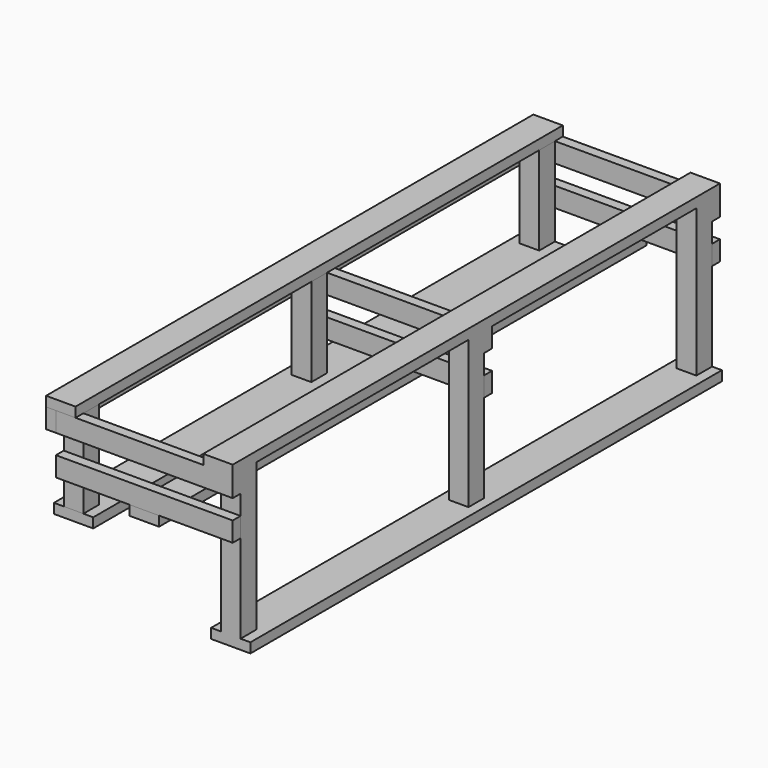
from build123d import *

# Parameters (mm, degrees)
F0_W      = 203.2
F0_H      = 50.8
F1_DEPTH  = 3048
F2_W      = 101.6
F2_H      = 101.6
F2_H_2    = 50.8
F3_DEPTH  = 762
F4_W      = 50.8
F4_H      = 101.6
F5_DEPTH  = 914.4
F6_W      = 50.8
F6_H      = 101.6
F7_DEPTH  = 914.4
F8_W      = 50.8
F8_H      = 101.6
F9_DEPTH  = 914.4
F13_DEPTH = 101.6
F14_W     = 50.8
F14_H     = 101.6
F15_DEPTH = 3149.6
F17_DEPTH = 3048
F18_W     = 50.8
F18_H     = 101.6
F19_DEPTH = 914.4
F20_W     = 50.8
F20_H     = 101.6
F21_DEPTH = 914.4
F22_W     = 50.8
F22_H     = 101.6
F23_DEPTH = 914.4
F24_W     = 152.4
F24_H     = 50.8
F25_DEPTH = 3149.6
F27_DEPTH = 3149.6
F29_DEPTH = 3149.6


with BuildPart() as f1:
    # F0 (on Front) → F1 (new body)
    with BuildSketch(Plane.XZ):
        with Locations((101.6, 25.4)):
            Rectangle(F0_W, F0_H)
    extrude(amount=F1_DEPTH)

    # F2 (on face) → F3 (join)
    with BuildSketch(Plane.XY.offset(50.8)):
        with Locations((101.6, -2997.2)):
            Rectangle(F2_W, F2_H)
        with Locations((101.6, -1549.4)):
            Rectangle(F2_W, F2_H_2)
        with Locations((101.6, -1498.6)):
            Rectangle(F2_W, F2_H_2)
        with Locations((101.6, -50.8)):
            Rectangle(F2_W, F2_H)
    extrude(amount=F3_DEPTH)

    # F4 (on face) → F5 (join)
    with BuildSketch(Plane.YZ.offset(152.4)):
        with Locations((25.4, 762)):
            Rectangle(F4_W, F4_H)
    extrude(amount=-F5_DEPTH)

    # F6 (on face) → F7 (join)
    with BuildSketch(Plane.YZ.offset(152.4)):
        with Locations((-3073.4, 762)):
            Rectangle(F6_W, F6_H)
    extrude(amount=-F7_DEPTH)

    # F8 (on face) → F9 (join)
    with BuildSketch(Plane.YZ.offset(152.4)):
        with Locations((-1447.8, 762)):
            Rectangle(F8_W, F8_H)
    extrude(amount=-F9_DEPTH)

    # F24 (on face) → F25 (join)
    with BuildSketch(Plane(origin=(0, 50.8, 0), x_dir=(-1, 0, 0), z_dir=(0, 1, 0))):
        with Locations((-76.2, 838.2)):
            Rectangle(F24_W, F24_H)
    extrude(amount=-F25_DEPTH)


with BuildPart() as f13:
    # F10 (on face) + F12 (on face) + F11 (on face) → F13 (new body)
    with BuildSketch(Plane(origin=(-762, 0, 0), x_dir=(0, -1, 0), z_dir=(-1, 0, 0))):
        Polygon((3048, 711.2), (3048, 812.8), (2946.4, 812.8), (2946.4, 355.6), (3048, 355.6), align=None)
    with BuildSketch(Plane(origin=(-762, 0, 0), x_dir=(0, -1, 0), z_dir=(-1, 0, 0))):
        Polygon((1574.8, 812.8), (1473.2, 812.8), (1473.2, 711.2), (1473.2, 355.6), (1574.8, 355.6), align=None)
    with BuildSketch(Plane(origin=(-762, 0, 0), x_dir=(0, -1, 0), z_dir=(-1, 0, 0))):
        Polygon((101.6, 812.8), (0, 812.8), (0, 711.2), (0, 355.6), (101.6, 355.6), align=None)
    extrude(amount=-F13_DEPTH)


with BuildPart() as f15:
    # F14 (on face) → F15 (new body)
    with BuildSketch(Plane.XZ.offset(3098.8)):
        with Locations((-787.4, 762)):
            Rectangle(F14_W, F14_H)
    extrude(amount=-F15_DEPTH)


with BuildPart() as f17:
    # F16 (on face) → F17 (new body)
    with BuildSketch(Plane.XZ.offset(3048)):
        Polygon((-609.6, 355.6), (-660.4, 355.6), (-762, 355.6), (-812.8, 355.6), (-812.8, 304.8), (-609.6, 304.8), align=None)
    extrude(amount=-F17_DEPTH)


with BuildPart() as f19:
    # F18 (on face) → F19 (new body)
    with BuildSketch(Plane.YZ.offset(152.4)):
        with Locations((25.4, 558.8)):
            Rectangle(F18_W, F18_H)
    extrude(amount=-F19_DEPTH)


with BuildPart() as f21:
    # F20 (on face) → F21 (new body)
    with BuildSketch(Plane.YZ.offset(152.4)):
        with Locations((-1447.8, 558.8)):
            Rectangle(F20_W, F20_H)
    extrude(amount=-F21_DEPTH)


with BuildPart() as f23:
    # F22 (on face) → F23 (new body)
    with BuildSketch(Plane.YZ.offset(152.4)):
        with Locations((-3073.4, 558.8)):
            Rectangle(F22_W, F22_H)
    extrude(amount=-F23_DEPTH)


with BuildPart() as f27:
    # F26 (on face) → F27 (new body)
    with BuildSketch(Plane(origin=(0, 50.8, 0), x_dir=(-1, 0, 0), z_dir=(0, 1, 0))):
        Polygon((762, 812.8), (812.8, 812.8), (812.8, 863.6), (660.4, 863.6), (660.4, 812.8), align=None)
    extrude(amount=-F27_DEPTH)


with BuildPart() as f29:
    # F28 (on face) → F29 (new body)
    with BuildSketch(Plane(origin=(0, 50.8, 0), x_dir=(-1, 0, 0), z_dir=(0, 1, 0))):
        Polygon((304.8, 508), (228.6, 508), (228.6, 457.2), (381, 457.2), (381, 508), align=None)
    extrude(amount=-F29_DEPTH)


solid = Compound([f1.part, f13.part, f15.part, f17.part, f19.part, f21.part, f23.part, f27.part, f29.part])
